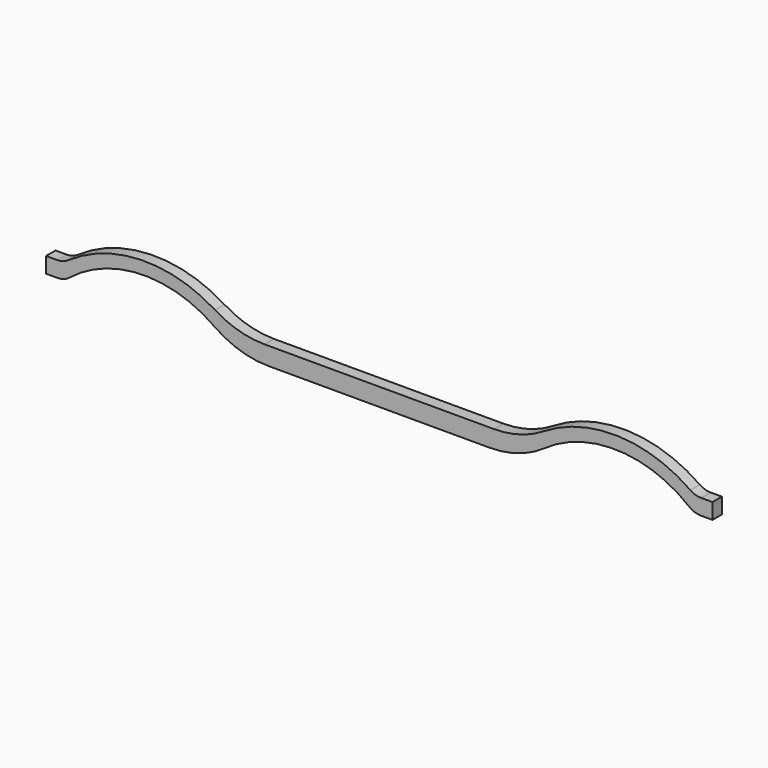
from build123d import *

# Parameters (mm, degrees)
F1_DEPTH = 4


with BuildPart() as f1:
    # F0 (on Front) → F1 (new body, symmetric)
    with BuildSketch(Plane.XZ):
        with BuildLine():
            ThreePointArc((111.130167, 15.609894), (95.033027, 8.473776), (77.595073, 6.0325))
            Line((77.595073, 6.0325), (-77.595073, 6.0325))
            ThreePointArc((-77.595073, 6.0325), (-95.033027, 8.473776), (-111.130167, 15.609894))
            ThreePointArc((-111.130167, 15.609894), (-161.194556, 29.17665), (-210.450019, 12.91629))
            ThreePointArc((-210.450019, 12.91629), (-213.914336, 11.208725), (-217.731712, 10.621431))
            Line((-217.731712, 10.621431), (-225.425, 10.621431))
            Line((-225.425, 10.621431), (-225.425, 0))
            Line((-225.425, 0), (-225.191568, 0))
            Line((-225.191568, 0), (-217.639167, 0))
            ThreePointArc((-217.639167, 0), (-213.437314, 0.715242), (-209.708742, 2.780405))
            ThreePointArc((-209.708742, 2.780405), (-161.129499, 20.611828), (-111.59344, 5.64248))
            ThreePointArc((-111.59344, 5.64248), (-94.152949, -3.043403), (-74.899881, -6.0325))
            Line((-74.899881, -6.0325), (74.899881, -6.0325))
            ThreePointArc((74.899881, -6.0325), (94.152949, -3.043403), (111.59344, 5.64248))
            ThreePointArc((111.59344, 5.64248), (161.129499, 20.611828), (209.708742, 2.780405))
            ThreePointArc((209.708742, 2.780405), (213.437314, 0.715242), (217.639167, 0))
            Line((217.639167, 0), (225.191568, 0))
            Line((225.191568, 0), (225.425, 0))
            Line((225.425, 0), (225.425, 10.621431))
            Line((225.425, 10.621431), (217.731712, 10.621431))
            ThreePointArc((217.731712, 10.621431), (213.914336, 11.208725), (210.450019, 12.91629))
            ThreePointArc((210.450019, 12.91629), (161.194556, 29.17665), (111.130167, 15.609894))
        make_face()
    extrude(amount=F1_DEPTH, both=True)


solid = f1.part
